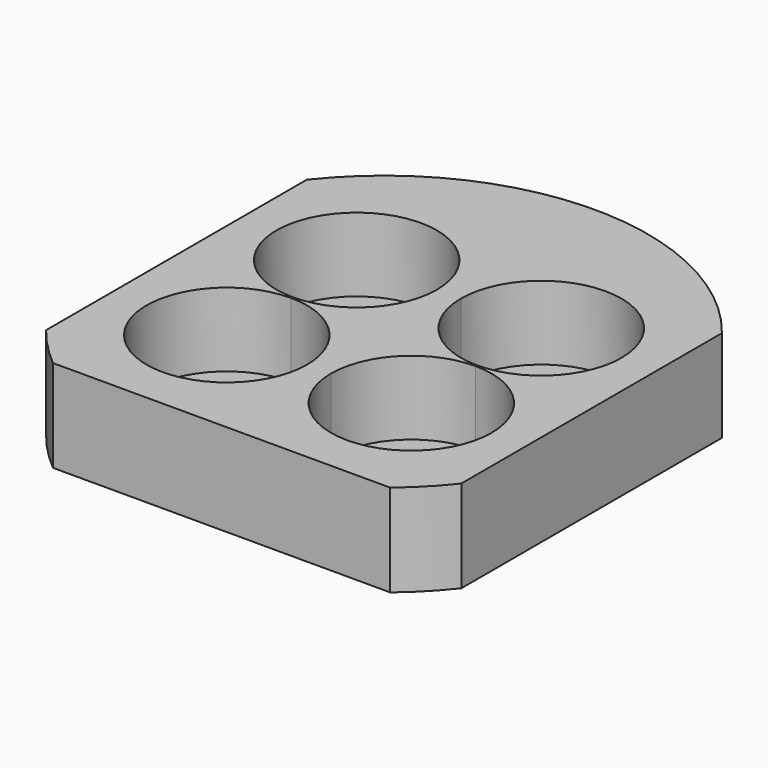
from build123d import *

# Parameters (mm, degrees)
F0_R     = 14.3
F1_DEPTH = 5
F3_DEPTH = 4
F5_DEPTH = 25


with BuildPart() as f1:
    # F0 (on Top) → F1 (new body)
    with BuildSketch(Plane.XY):
        Circle(F0_R)
    extrude(amount=F1_DEPTH)

    # F2 (on face) → F3 (cut)
    with BuildSketch(Plane.XY.offset(5)):
        with BuildLine():
            ThreePointArc((5, -0.05), (1.924086, -1.324086), (0.65, -4.4))
            Line((0.65, -4.4), (5, -4.4))
            Line((5, -4.4), (5, -0.05))
        make_face()
        with BuildLine():
            Line((5, -4.4), (0.65, -4.4))
            ThreePointArc((0.65, -4.4), (5, -8.75), (9.35, -4.4))
            ThreePointArc((9.35, -4.4), (8.075914, -1.324086), (5, -0.05))
            Line((5, -0.05), (5, -4.4))
        make_face()
        with BuildLine():
            Line((-5, -4.4), (-0.65, -4.4))
            ThreePointArc((-0.65, -4.4), (-1.924086, -1.324086), (-5, -0.05))
            Line((-5, -0.05), (-5, -4.4))
        make_face()
        with BuildLine():
            ThreePointArc((-5, -0.05), (-8.075914, -7.475914), (-0.65, -4.4))
            Line((-0.65, -4.4), (-5, -4.4))
            Line((-5, -4.4), (-5, -0.05))
        make_face()
        with BuildLine():
            ThreePointArc((0.65, 4.4), (1.924086, 1.324086), (5, 0.05))
            Line((5, 0.05), (5, 4.4))
            Line((5, 4.4), (0.65, 4.4))
        make_face()
        with BuildLine():
            Line((5, 4.4), (5, 0.05))
            ThreePointArc((5, 0.05), (8.075914, 1.324086), (9.35, 4.4))
            ThreePointArc((9.35, 4.4), (5, 8.75), (0.65, 4.4))
            Line((0.65, 4.4), (5, 4.4))
        make_face()
        with BuildLine():
            ThreePointArc((-0.65, 4.4), (-8.075914, 7.475914), (-5, 0.05))
            Line((-5, 0.05), (-5, 4.4))
            Line((-5, 4.4), (-0.65, 4.4))
        make_face()
        with BuildLine():
            Line((-5, 4.4), (-5, 0.05))
            ThreePointArc((-5, 0.05), (-1.924086, 1.324086), (-0.65, 4.4))
            Line((-0.65, 4.4), (-5, 4.4))
        make_face()
    extrude(amount=-F3_DEPTH, mode=Mode.SUBTRACT)

    # F4 (on face) → F5 (cut)
    with BuildSketch(Plane.XY.offset(5)):
        with BuildLine():
            ThreePointArc((-11.25, 8.827655), (-14.3, 0), (-11.25, -8.827655))
            Line((-11.25, -8.827655), (-11.25, 8.827655))
        make_face()
        with BuildLine():
            Line((11.25, 8.827655), (11.25, -8.827655))
            ThreePointArc((11.25, -8.827655), (13.516009, -4.66985), (14.3, 0))
            ThreePointArc((14.3, 0), (13.516009, 4.66985), (11.25, 8.827655))
        make_face()
        with BuildLine():
            ThreePointArc((-9.137286, -11), (0, -14.3), (9.137286, -11))
            Line((9.137286, -11), (-9.137286, -11))
        make_face()
    extrude(amount=-F5_DEPTH, mode=Mode.SUBTRACT)


solid = f1.part
